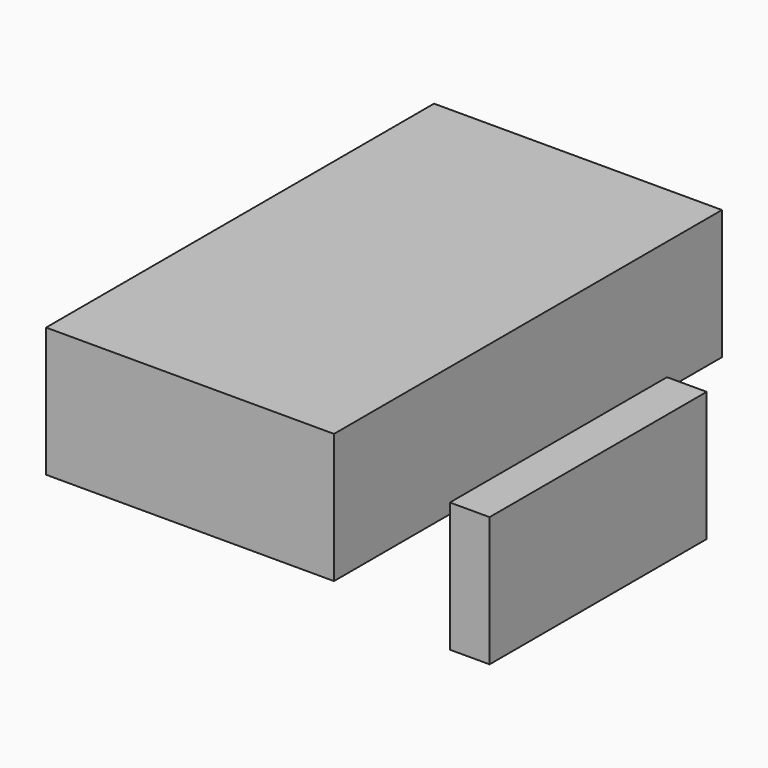
from build123d import *

# Parameters (mm, degrees)
F0_W     = 56.421328
F0_H     = 95.021997
F0_W_2   = 7.778205
F0_H_2   = 53.180188
F1_DEPTH = 25.4


with BuildPart() as f1:
    # F0 (on Top) → F1 (new body)
    with BuildSketch(Plane.XY):
        with Locations((28.210664, 1.00421)):
            Rectangle(F0_W, F0_H)
        with Locations((88.358994, -26.590094)):
            Rectangle(F0_W_2, F0_H_2)
    extrude(amount=F1_DEPTH)


solid = f1.part
